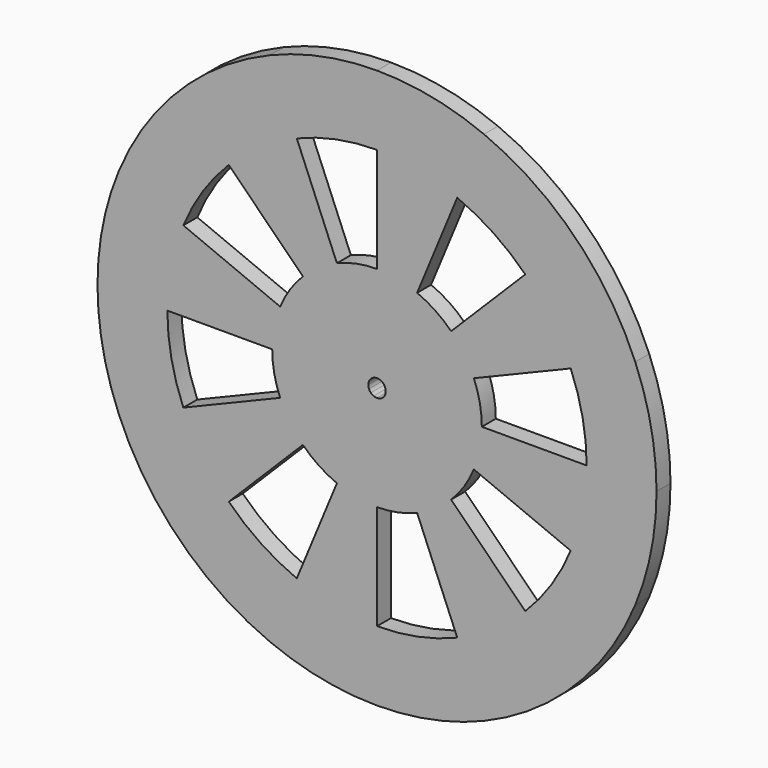
from build123d import *

# Parameters (mm, degrees)
F1_DEPTH = 3.175


with BuildPart() as f1:
    # F0 (on Front) → F1 (new body)
    with BuildSketch(Plane.XZ):
        with BuildLine():
            Line((26.9407683632, 26.9407683632), (35.9210244843, 35.9210244843))
            ThreePointArc((35.9210244843, 35.9210244843), (28.2229678374, 42.238656305), (19.4403183641, 46.9330802516))
            Line((19.4403183641, 46.9330802516), (14.5802387731, 35.1998101887))
            ThreePointArc((14.5802387731, 35.1998101887), (21.167225878, 31.6789922287), (26.9407683632, 26.9407683632))
        make_face()
        with BuildLine():
            Line((0, 38.1), (0, 50.8))
            ThreePointArc((0, 50.8), (-9.9105883584, 49.8238922445), (-19.4403183641, 46.9330802516))
            Line((-19.4403183641, 46.9330802516), (-14.5802387731, 35.1998101887))
            ThreePointArc((-14.5802387731, 35.1998101887), (-7.4329412688, 37.3679191834), (0, 38.1))
        make_face()
        with BuildLine():
            Line((-26.9407683632, 26.9407683632), (-35.9210244843, 35.9210244843))
            ThreePointArc((-35.9210244843, 35.9210244843), (-42.238656305, 28.2229678374), (-46.9330802516, 19.4403183641))
            Line((-46.9330802516, 19.4403183641), (-35.1998101887, 14.5802387731))
            ThreePointArc((-35.1998101887, 14.5802387731), (-31.6789922287, 21.167225878), (-26.9407683632, 26.9407683632))
        make_face()
        with BuildLine():
            Line((38.1, 0), (50.8, 0))
            ThreePointArc((50.8, 0), (49.8238922445, 9.9105883584), (46.9330802516, 19.4403183641))
            Line((46.9330802516, 19.4403183641), (35.1998101887, 14.5802387731))
            ThreePointArc((35.1998101887, 14.5802387731), (37.3679191834, 7.4329412688), (38.1, 0))
        make_face()
        with BuildLine():
            ThreePointArc((-35.9210244843, -35.9210244843), (-28.2229678374, -42.238656305), (-19.4403183641, -46.9330802516))
            Line((-19.4403183641, -46.9330802516), (-14.5802387731, -35.1998101887))
            ThreePointArc((-14.5802387731, -35.1998101887), (-21.167225878, -31.6789922287), (-26.9407683632, -26.9407683632))
            Line((-26.9407683632, -26.9407683632), (-35.9210244843, -35.9210244843))
        make_face()
        with BuildLine():
            ThreePointArc((0, -50.8), (9.9105883584, -49.8238922445), (19.4403183641, -46.9330802516))
            Line((19.4403183641, -46.9330802516), (14.5802387731, -35.1998101887))
            ThreePointArc((14.5802387731, -35.1998101887), (7.4329412688, -37.3679191834), (0, -38.1))
            Line((0, -38.1), (0, -50.8))
        make_face()
        with BuildLine():
            ThreePointArc((35.9210244843, -35.9210244843), (42.238656305, -28.2229678374), (46.9330802516, -19.4403183641))
            Line((46.9330802516, -19.4403183641), (35.1998101887, -14.5802387731))
            ThreePointArc((35.1998101887, -14.5802387731), (31.6789922287, -21.167225878), (26.9407683632, -26.9407683632))
            Line((26.9407683632, -26.9407683632), (35.9210244843, -35.9210244843))
        make_face()
        with BuildLine():
            Line((-13.4703841816, 13.4703841816), (-1.1225320151, 1.1225320151))
            ThreePointArc((-1.1225320151, 1.1225320151), (-0.8819677449, 1.3199580095), (-0.6075099489, 1.4666587579))
            Line((-0.6075099489, 1.4666587579), (-7.2901193866, 17.5999050943))
            ThreePointArc((-7.2901193866, 17.5999050943), (-10.583612939, 15.8394961144), (-13.4703841816, 13.4703841816))
        make_face()
        with BuildLine():
            Line((0.6075099489, 1.4666587579), (7.2901193866, 17.5999050943))
            ThreePointArc((7.2901193866, 17.5999050943), (3.7164706344, 18.6839595917), (0, 19.05))
            Line((0, 19.05), (0, 1.5875))
            ThreePointArc((0, 1.5875), (0.3097058862, 1.5569966326), (0.6075099489, 1.4666587579))
        make_face()
        with BuildLine():
            Line((1.1225320151, 1.1225320151), (13.4703841816, 13.4703841816))
            ThreePointArc((13.4703841816, 13.4703841816), (10.583612939, 15.8394961144), (7.2901193866, 17.5999050943))
            Line((7.2901193866, 17.5999050943), (0.6075099489, 1.4666587579))
            ThreePointArc((0.6075099489, 1.4666587579), (0.8819677449, 1.3199580095), (1.1225320151, 1.1225320151))
        make_face()
        with BuildLine():
            Line((1.4666587579, 0.6075099489), (17.5999050943, 7.2901193866))
            ThreePointArc((17.5999050943, 7.2901193866), (15.8394961144, 10.583612939), (13.4703841816, 13.4703841816))
            Line((13.4703841816, 13.4703841816), (1.1225320151, 1.1225320151))
            ThreePointArc((1.1225320151, 1.1225320151), (1.3199580095, 0.8819677449), (1.4666587579, 0.6075099489))
        make_face()
        with BuildLine():
            Line((1.5875, 0), (19.05, 0))
            ThreePointArc((19.05, 0), (18.6839595917, 3.7164706344), (17.5999050943, 7.2901193866))
            Line((17.5999050943, 7.2901193866), (1.4666587579, 0.6075099489))
            ThreePointArc((1.4666587579, 0.6075099489), (1.5569966326, 0.3097058862), (1.5875, 0))
        make_face()
        with BuildLine():
            ThreePointArc((17.5999050943, -7.2901193866), (18.6839595917, -3.7164706344), (19.05, 0))
            Line((19.05, 0), (1.5875, 0))
            ThreePointArc((1.5875, 0), (1.5569966326, -0.3097058862), (1.4666587579, -0.6075099489))
            Line((1.4666587579, -0.6075099489), (17.5999050943, -7.2901193866))
        make_face()
        with BuildLine():
            ThreePointArc((7.2901193866, -17.5999050943), (10.583612939, -15.8394961144), (13.4703841816, -13.4703841816))
            Line((13.4703841816, -13.4703841816), (1.1225320151, -1.1225320151))
            ThreePointArc((1.1225320151, -1.1225320151), (0.8819677449, -1.3199580095), (0.6075099489, -1.4666587579))
            Line((0.6075099489, -1.4666587579), (7.2901193866, -17.5999050943))
        make_face()
        with BuildLine():
            Line((-13.4703841816, -13.4703841816), (-1.1225320151, -1.1225320151))
            ThreePointArc((-1.1225320151, -1.1225320151), (-1.3199580095, -0.8819677449), (-1.4666587579, -0.6075099489))
            Line((-1.4666587579, -0.6075099489), (-17.5999050943, -7.2901193866))
            ThreePointArc((-17.5999050943, -7.2901193866), (-15.8394961144, -10.583612939), (-13.4703841816, -13.4703841816))
        make_face()
        with BuildLine():
            Line((-19.05, 0), (-1.5875, 0))
            ThreePointArc((-1.5875, 0), (-1.5569966326, 0.3097058862), (-1.4666587579, 0.6075099489))
            Line((-1.4666587579, 0.6075099489), (-17.5999050943, 7.2901193866))
            ThreePointArc((-17.5999050943, 7.2901193866), (-18.6839595917, 3.7164706344), (-19.05, 0))
        make_face()
        with BuildLine():
            ThreePointArc((-1.4666587579, 0.6075099489), (-1.3199580095, 0.8819677449), (-1.1225320151, 1.1225320151))
            Line((-1.1225320151, 1.1225320151), (-13.4703841816, 13.4703841816))
            ThreePointArc((-13.4703841816, 13.4703841816), (-15.8394961144, 10.583612939), (-17.5999050943, 7.2901193866))
            Line((-17.5999050943, 7.2901193866), (-1.4666587579, 0.6075099489))
        make_face()
        with BuildLine():
            ThreePointArc((-1.4666587579, -0.6075099489), (-1.5569966326, -0.3097058862), (-1.5875, 0))
            Line((-1.5875, 0), (-19.05, 0))
            ThreePointArc((-19.05, 0), (-18.6839595917, -3.7164706344), (-17.5999050943, -7.2901193866))
            Line((-17.5999050943, -7.2901193866), (-1.4666587579, -0.6075099489))
        make_face()
        with BuildLine():
            ThreePointArc((-0.6075099489, -1.4666587579), (-0.8819677449, -1.3199580095), (-1.1225320151, -1.1225320151))
            Line((-1.1225320151, -1.1225320151), (-13.4703841816, -13.4703841816))
            ThreePointArc((-13.4703841816, -13.4703841816), (-10.583612939, -15.8394961144), (-7.2901193866, -17.5999050943))
            Line((-7.2901193866, -17.5999050943), (-0.6075099489, -1.4666587579))
        make_face()
        with BuildLine():
            Line((0, -19.05), (0, -1.5875))
            ThreePointArc((0, -1.5875), (-0.3097058862, -1.5569966326), (-0.6075099489, -1.4666587579))
            Line((-0.6075099489, -1.4666587579), (-7.2901193866, -17.5999050943))
            ThreePointArc((-7.2901193866, -17.5999050943), (-3.7164706344, -18.6839595917), (0, -19.05))
        make_face()
        with BuildLine():
            ThreePointArc((0, -19.05), (3.7164706344, -18.6839595917), (7.2901193866, -17.5999050943))
            Line((7.2901193866, -17.5999050943), (0.6075099489, -1.4666587579))
            ThreePointArc((0.6075099489, -1.4666587579), (0.3097058862, -1.5569966326), (0, -1.5875))
            Line((0, -1.5875), (0, -19.05))
        make_face()
        with BuildLine():
            ThreePointArc((13.4703841816, -13.4703841816), (15.8394961144, -10.583612939), (17.5999050943, -7.2901193866))
            Line((17.5999050943, -7.2901193866), (1.4666587579, -0.6075099489))
            ThreePointArc((1.4666587579, -0.6075099489), (1.3199580095, -0.8819677449), (1.1225320151, -1.1225320151))
            Line((1.1225320151, -1.1225320151), (13.4703841816, -13.4703841816))
        make_face()
        with BuildLine():
            ThreePointArc((-0.6075099489, 1.4666587579), (-0.3097058862, 1.5569966326), (0, 1.5875))
            Line((0, 1.5875), (0, 19.05))
            ThreePointArc((0, 19.05), (-3.7164706344, 18.6839595917), (-7.2901193866, 17.5999050943))
            Line((-7.2901193866, 17.5999050943), (-0.6075099489, 1.4666587579))
        make_face()
        with BuildLine():
            ThreePointArc((-50.8, 0), (-49.8238922445, -9.9105883584), (-46.9330802516, -19.4403183641))
            Line((-46.9330802516, -19.4403183641), (-35.1998101887, -14.5802387731))
            ThreePointArc((-35.1998101887, -14.5802387731), (-37.3679191834, -7.4329412688), (-38.1, 0))
            Line((-38.1, 0), (-50.8, 0))
        make_face()
        with BuildLine():
            Line((-14.5802387731, 35.1998101887), (-19.4403183641, 46.9330802516))
            ThreePointArc((-19.4403183641, 46.9330802516), (-28.2229678374, 42.238656305), (-35.9210244843, 35.9210244843))
            Line((-35.9210244843, 35.9210244843), (-26.9407683632, 26.9407683632))
            ThreePointArc((-26.9407683632, 26.9407683632), (-21.167225878, 31.6789922287), (-14.5802387731, 35.1998101887))
        make_face()
        with BuildLine():
            Line((14.5802387731, 35.1998101887), (19.4403183641, 46.9330802516))
            ThreePointArc((19.4403183641, 46.9330802516), (9.9105883584, 49.8238922445), (0, 50.8))
            Line((0, 50.8), (0, 38.1))
            ThreePointArc((0, 38.1), (7.4329412688, 37.3679191834), (14.5802387731, 35.1998101887))
        make_face()
        with BuildLine():
            Line((35.1998101887, 14.5802387731), (46.9330802516, 19.4403183641))
            ThreePointArc((46.9330802516, 19.4403183641), (42.238656305, 28.2229678374), (35.9210244843, 35.9210244843))
            Line((35.9210244843, 35.9210244843), (26.9407683632, 26.9407683632))
            ThreePointArc((26.9407683632, 26.9407683632), (31.6789922287, 21.167225878), (35.1998101887, 14.5802387731))
        make_face()
        with BuildLine():
            ThreePointArc((19.4403183641, -46.9330802516), (28.2229678374, -42.238656305), (35.9210244843, -35.9210244843))
            Line((35.9210244843, -35.9210244843), (26.9407683632, -26.9407683632))
            ThreePointArc((26.9407683632, -26.9407683632), (21.167225878, -31.6789922287), (14.5802387731, -35.1998101887))
            Line((14.5802387731, -35.1998101887), (19.4403183641, -46.9330802516))
        make_face()
        with BuildLine():
            ThreePointArc((-19.4403183641, -46.9330802516), (-9.9105883584, -49.8238922445), (0, -50.8))
            Line((0, -50.8), (0, -38.1))
            ThreePointArc((0, -38.1), (-7.4329412688, -37.3679191834), (-14.5802387731, -35.1998101887))
            Line((-14.5802387731, -35.1998101887), (-19.4403183641, -46.9330802516))
        make_face()
        with BuildLine():
            ThreePointArc((-46.9330802516, -19.4403183641), (-42.238656305, -28.2229678374), (-35.9210244843, -35.9210244843))
            Line((-35.9210244843, -35.9210244843), (-26.9407683632, -26.9407683632))
            ThreePointArc((-26.9407683632, -26.9407683632), (-31.6789922287, -21.167225878), (-35.1998101887, -14.5802387731))
            Line((-35.1998101887, -14.5802387731), (-46.9330802516, -19.4403183641))
        make_face()
        with BuildLine():
            ThreePointArc((46.9330802516, -19.4403183641), (49.8238922445, -9.9105883584), (50.8, 0))
            Line((50.8, 0), (38.1, 0))
            ThreePointArc((38.1, 0), (37.3679191834, -7.4329412688), (35.1998101887, -14.5802387731))
            Line((35.1998101887, -14.5802387731), (46.9330802516, -19.4403183641))
        make_face()
        with BuildLine():
            Line((-38.1, 0), (-19.05, 0))
            ThreePointArc((-19.05, 0), (-18.6839595917, 3.7164706344), (-17.5999050943, 7.2901193866))
            Line((-17.5999050943, 7.2901193866), (-35.1998101887, 14.5802387731))
            ThreePointArc((-35.1998101887, 14.5802387731), (-37.3679191834, 7.4329412688), (-38.1, 0))
        make_face()
        with BuildLine():
            Line((-7.2901193866, 17.5999050943), (-14.5802387731, 35.1998101887))
            ThreePointArc((-14.5802387731, 35.1998101887), (-21.167225878, 31.6789922287), (-26.9407683632, 26.9407683632))
            Line((-26.9407683632, 26.9407683632), (-13.4703841816, 13.4703841816))
            ThreePointArc((-13.4703841816, 13.4703841816), (-10.583612939, 15.8394961144), (-7.2901193866, 17.5999050943))
        make_face()
        with BuildLine():
            Line((7.2901193866, 17.5999050943), (14.5802387731, 35.1998101887))
            ThreePointArc((14.5802387731, 35.1998101887), (7.4329412688, 37.3679191834), (0, 38.1))
            Line((0, 38.1), (0, 19.05))
            ThreePointArc((0, 19.05), (3.7164706344, 18.6839595917), (7.2901193866, 17.5999050943))
        make_face()
        with BuildLine():
            Line((17.5999050943, 7.2901193866), (35.1998101887, 14.5802387731))
            ThreePointArc((35.1998101887, 14.5802387731), (31.6789922287, 21.167225878), (26.9407683632, 26.9407683632))
            Line((26.9407683632, 26.9407683632), (13.4703841816, 13.4703841816))
            ThreePointArc((13.4703841816, 13.4703841816), (15.8394961144, 10.583612939), (17.5999050943, 7.2901193866))
        make_face()
        with BuildLine():
            ThreePointArc((35.1998101887, -14.5802387731), (37.3679191834, -7.4329412688), (38.1, 0))
            Line((38.1, 0), (19.05, 0))
            ThreePointArc((19.05, 0), (18.6839595917, -3.7164706344), (17.5999050943, -7.2901193866))
            Line((17.5999050943, -7.2901193866), (35.1998101887, -14.5802387731))
        make_face()
        with BuildLine():
            ThreePointArc((-14.5802387731, -35.1998101887), (-7.4329412688, -37.3679191834), (0, -38.1))
            Line((0, -38.1), (0, -19.05))
            ThreePointArc((0, -19.05), (-3.7164706344, -18.6839595917), (-7.2901193866, -17.5999050943))
            Line((-7.2901193866, -17.5999050943), (-14.5802387731, -35.1998101887))
        make_face()
        with BuildLine():
            Line((-26.9407683632, -26.9407683632), (-13.4703841816, -13.4703841816))
            ThreePointArc((-13.4703841816, -13.4703841816), (-15.8394961144, -10.583612939), (-17.5999050943, -7.2901193866))
            Line((-17.5999050943, -7.2901193866), (-35.1998101887, -14.5802387731))
            ThreePointArc((-35.1998101887, -14.5802387731), (-31.6789922287, -21.167225878), (-26.9407683632, -26.9407683632))
        make_face()
        with BuildLine():
            Line((-35.1998101887, 14.5802387731), (-46.9330802516, 19.4403183641))
            ThreePointArc((-46.9330802516, 19.4403183641), (-49.8238922445, 9.9105883584), (-50.8, 0))
            Line((-50.8, 0), (-38.1, 0))
            ThreePointArc((-38.1, 0), (-37.3679191834, 7.4329412688), (-35.1998101887, 14.5802387731))
        make_face()
        with BuildLine():
            ThreePointArc((14.5802387731, -35.1998101887), (21.167225878, -31.6789922287), (26.9407683632, -26.9407683632))
            Line((26.9407683632, -26.9407683632), (13.4703841816, -13.4703841816))
            ThreePointArc((13.4703841816, -13.4703841816), (10.583612939, -15.8394961144), (7.2901193866, -17.5999050943))
            Line((7.2901193866, -17.5999050943), (14.5802387731, -35.1998101887))
        make_face()
    extrude(amount=F1_DEPTH)


solid = f1.part
